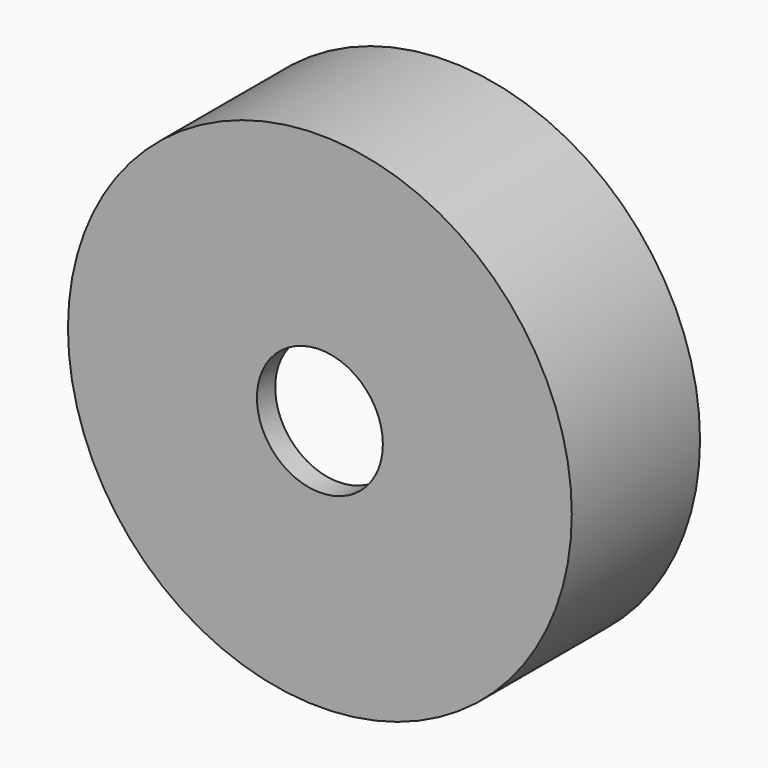
from build123d import *

# Parameters (mm, degrees)
F0_R     = 13.97
F0_R_2   = 3.4925
F1_DEPTH = 8.89
F2_R     = 12.5476
F3_DEPTH = 7.62


with BuildPart() as f1:
    # F0 (on Front) → F1 (new body)
    with BuildSketch(Plane.XZ):
        with Locations((-132.357284, 62.626258)):
            Circle(F0_R)
        with Locations((-132.357284, 62.626258)):
            Circle(F0_R_2, mode=Mode.SUBTRACT)
    extrude(amount=F1_DEPTH)

    # F2 (on face) → F3 (cut)
    with BuildSketch(Plane(origin=(0, 0, 0), x_dir=(-1, 0, 0), z_dir=(0, 1, 0))):
        with Locations((132.357284, 62.626258)):
            Circle(F2_R)
    extrude(amount=-F3_DEPTH, mode=Mode.SUBTRACT)


solid = f1.part
